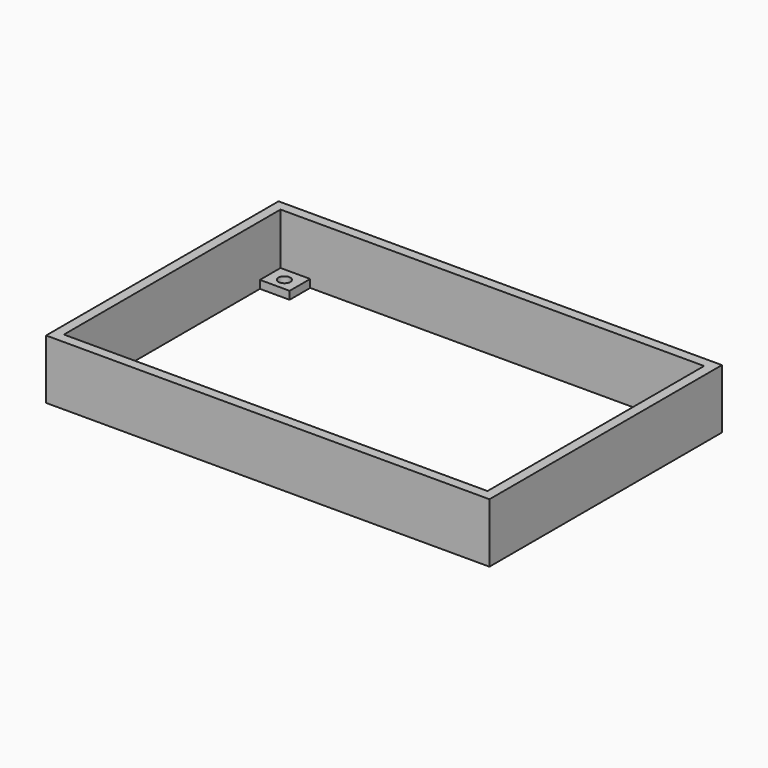
from build123d import *

# Parameters (mm, degrees)
SKETCH_W      = 112
SKETCH_H      = 73.4
SKETCH_W_2    = 107
SKETCH_H_2    = 68.4
PAD_DEPTH     = 15
SKETCH001_W   = 6.5
SKETCH001_H   = 6.5
SKETCH001_W_2 = 7.5
PAD001_DEPTH  = 2
SKETCH002_R   = 1.5
POCKET_DEPTH  = 2


with BuildPart() as part:
    # Sketch → Pad (new body)
    with BuildSketch(Plane.XY):
        Rectangle(SKETCH_W, SKETCH_H)
        Rectangle(SKETCH_W_2, SKETCH_H_2, mode=Mode.SUBTRACT)
    extrude(amount=PAD_DEPTH)

    # Sketch001 (on Face9 of Pad) → Pad001 (join)
    with BuildSketch(Plane(origin=(0, 0, 0), x_dir=(1, 0, 0), z_dir=(0, 0, -1))):
        with Locations((-50.25, 30.95)):
            Rectangle(SKETCH001_W, SKETCH001_H)
        with Locations((-49.75, -30.95)):
            Rectangle(SKETCH001_W_2, SKETCH001_H)
        with Locations((50.25, 30.95)):
            Rectangle(SKETCH001_W, SKETCH001_H)
        with Locations((50.25, -30.95)):
            Rectangle(SKETCH001_W, SKETCH001_H)
    extrude(amount=-PAD001_DEPTH)

    # Sketch002 (on Face22 of Pad001) → Pocket (cut)
    with BuildSketch(Plane(origin=(0, 0, 0), x_dir=(1, 0, 0), z_dir=(0, 0, -1))):
        with Locations((-50.25, 30.75)):
            Circle(SKETCH002_R)
        with Locations((50.25, -30.75)):
            Circle(SKETCH002_R)
        with Locations((-49.75, -30.75)):
            Circle(SKETCH002_R)
        with Locations((50.25, 30.75)):
            Circle(SKETCH002_R)
    extrude(amount=-POCKET_DEPTH, mode=Mode.SUBTRACT)


solid = part.part
